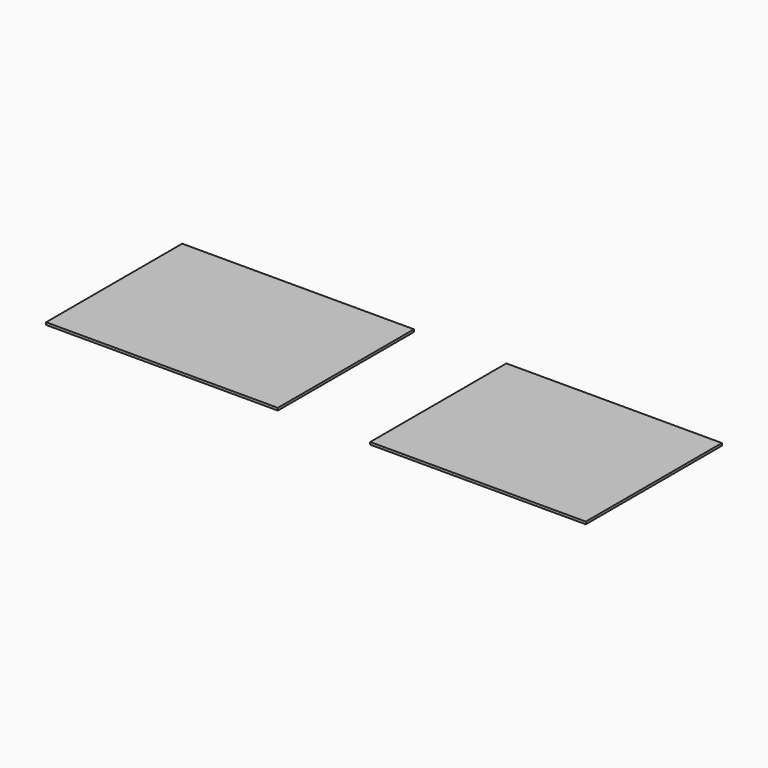
from build123d import *

# Parameters (mm, degrees)
F0_W     = 1430
F0_H     = 1050
F1_DEPTH = 15
F3_W     = 300
F3_H     = 300
F3_W_2   = 100
F3_H_2   = 1050
F4_DEPTH = 15.001


with BuildPart() as f1:
    # F0 (on Top) → F1 (new body)
    with BuildSketch(Plane.XY):
        with Locations((715, 525)):
            Rectangle(F0_W, F0_H)
    extrude(amount=F1_DEPTH)


with BuildPart() as f2_1:
    # F2: copy of F1
    add(f1.part.moved(Location((2000, 0, 0))))

    # F3 (on face) → F4 (cut, through all)
    with BuildSketch(Plane.XY.offset(15)):
        with Locations((3650, 525)):
            Rectangle(F3_W, F3_H)
        with Locations((3380, 525)):
            Rectangle(F3_W_2, F3_H_2)
    extrude(amount=-F4_DEPTH, mode=Mode.SUBTRACT)


solid = Compound([f1.part, f2_1.part])
